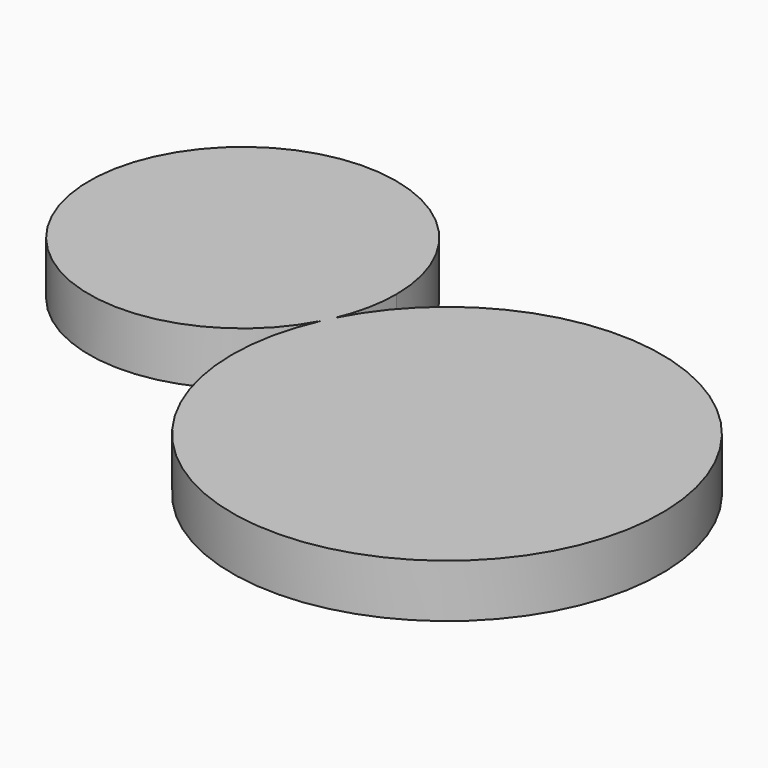
from build123d import *

# Parameters (mm, degrees)
F1_DEPTH = 25.4


with BuildPart() as f1:
    # F0 (on Top) → F1 (new body)
    with BuildSketch(Plane.XY):
        with BuildLine():
            ThreePointArc((-11.8249184792, -8.1090112858), (-7.3418635394, 6.1103326408), (-5.8266454164, 20.9424477071))
            ThreePointArc((-5.8266454164, 20.9424477071), (-150.35403547, 38.6760575033), (-14.4012550355, -13.4726614095))
            ThreePointArc((-14.4012550355, -13.4726614095), (-13.15198917, -10.7721502467), (-11.8249184792, -8.1090112858))
        make_face()
        with BuildLine():
            ThreePointArc((-11.8249184792, -8.1090112858), (-13.15198917, -10.7721502467), (-14.4012550355, -13.4726614095))
            ThreePointArc((-14.4012550355, -13.4726614095), (-13.0586766944, -10.8169712802), (-11.8249184792, -8.1090112858))
        make_face()
        with BuildLine():
            ThreePointArc((-11.8249184792, -8.1090112858), (-13.0586766944, -10.8169712802), (-14.4012550355, -13.4726614095))
            ThreePointArc((-14.4012550355, -13.4726614095), (57.9854741252, -155.5136645647), (181.8774366926, -55.182877928))
            ThreePointArc((181.8774366926, -55.182877928), (103.528278127, 44.4872672005), (-11.8249184792, -8.1090112858))
        make_face()
    extrude(amount=F1_DEPTH)


solid = f1.part
